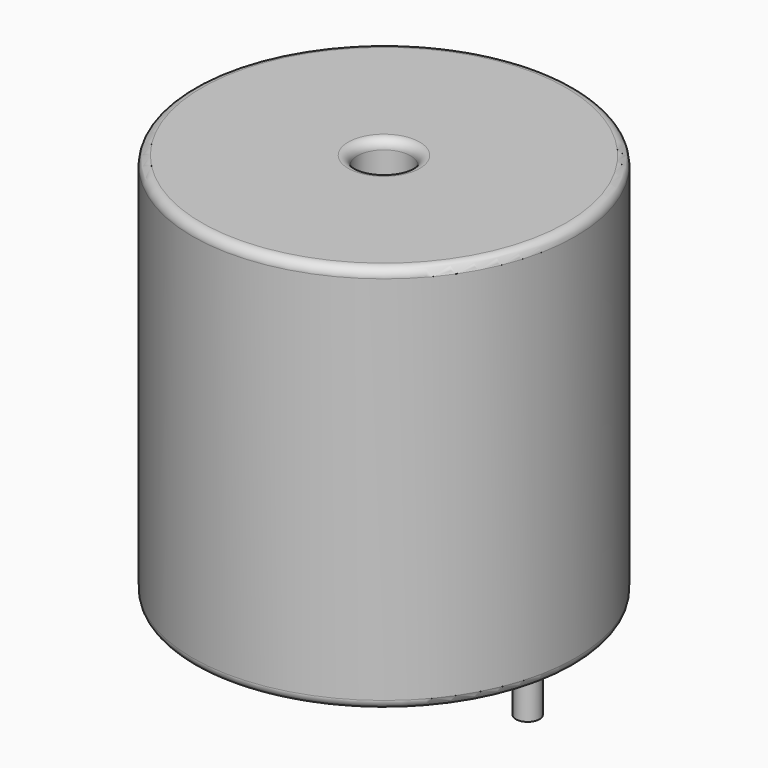
from build123d import *

# Parameters (mm, degrees)
SKETCH001_R       = 0.65
PAD001_DEPTH      = 10.67
PAD001_DEPTH_BACK = 3.5
SKETCH_R          = 10.5
SKETCH_R_2        = 1.46
PAD_DEPTH         = 21.34
FILLET_R          = 0.5


with BuildPart() as pad001:
    # Sketch001 → Pad001 (new body, two sides)
    with BuildSketch(Plane.XY.offset(0.5)) as pad001_sk:
        Circle(SKETCH001_R)
        with Locations((15.75, 0)):
            Circle(SKETCH001_R)
    extrude(amount=PAD001_DEPTH)
    extrude(pad001_sk.sketch, amount=-PAD001_DEPTH_BACK)


with BuildPart() as obj1:
    # Sketch → Pad (new body)
    with BuildSketch(Plane.XY.offset(0.1)):
        with Locations((7.875, 0)):
            Circle(SKETCH_R)
        with Locations((7.875, 0)):
            Circle(SKETCH_R_2, mode=Mode.SUBTRACT)
    extrude(amount=PAD_DEPTH)

    # Fillet
    fillet_edges = [obj1.edges().sort_by_distance(p)[0] for p in [
        (6.415, 0, 21.44),
        (-2.625, 0, 21.44),
        (-2.625, 0, 0.1),
    ]]
    fillet(fillet_edges, radius=FILLET_R)

    # obj1: union Pad001
    add(pad001.part)


solid = obj1.part
